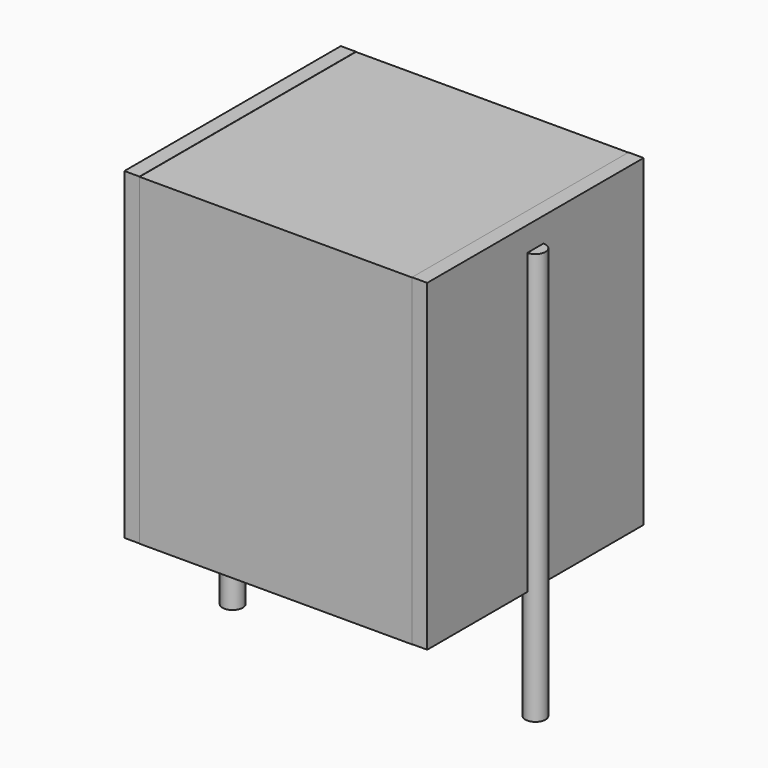
from build123d import *

# Parameters (mm, degrees)
SKETCH_W          = 6.75
SKETCH_H          = 6.7
PAD_DEPTH         = 8
SKETCH001_R       = 0.25
PAD001_DEPTH      = 7
PAD001_DEPTH_BACK = 3.2
SKETCH002_W       = 0.375
SKETCH002_H       = 6.7
PAD002_DEPTH      = 8


with BuildPart() as pad:
    # Sketch → Pad (new body)
    with BuildSketch(Plane.XY.offset(0.1)):
        with Locations((3.75, 0)):
            Rectangle(SKETCH_W, SKETCH_H)
    extrude(amount=PAD_DEPTH)


with BuildPart() as pad001:
    # Sketch001 → Pad001 (new body, two sides)
    with BuildSketch(Plane.XY.offset(0.5)) as pad001_sk:
        Circle(SKETCH001_R)
        with Locations((7.5, 0)):
            Circle(SKETCH001_R)
    extrude(amount=PAD001_DEPTH)
    extrude(pad001_sk.sketch, amount=-PAD001_DEPTH_BACK)


with BuildPart() as pad002:
    # Sketch002 → Pad002 (new body)
    with BuildSketch(Plane.XY.offset(0.105)):
        with Locations((0.1875, 0)):
            Rectangle(SKETCH002_W, SKETCH002_H)
        with Locations((7.3125, 0)):
            Rectangle(SKETCH002_W, SKETCH002_H)
    extrude(amount=PAD002_DEPTH)


solid = Compound([pad.part, pad001.part, pad002.part])
